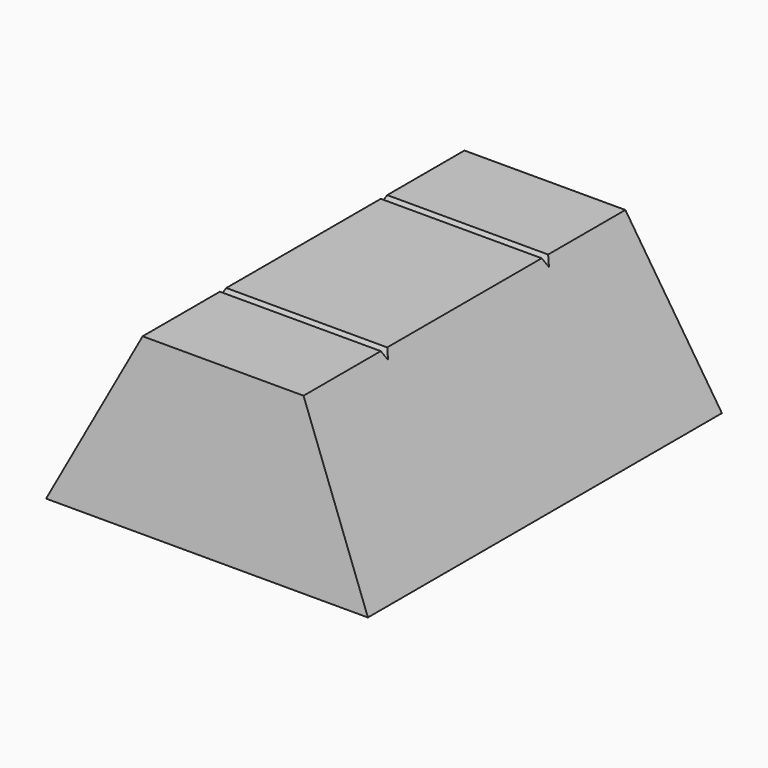
from build123d import *

# Parameters (mm, degrees)
F0_W     = 20
F0_H     = 20
F1_DEPTH = 25
F3_DEPTH = 20
F4_DEPTH = 30
F5_DEPTH = 25


with BuildPart() as f1:
    # F0 (on Front) → F1 (new body, symmetric)
    with BuildSketch(Plane.XZ):
        Rectangle(F0_W, F0_H)
        Polygon((20, -10), (10, 10), (10, -10), align=None)
        Polygon((20, 10), (10, 10), (20, -10), align=None)
        Polygon((-10, -10), (-10, 10), (-20, -10), align=None)
        Polygon((-20, -10), (-10, 10), (-20, 10), align=None)
    extrude(amount=F1_DEPTH, both=True)

    # F2 (on Right) → F3 (join, symmetric)
    with BuildSketch(Plane.YZ):
        Polygon((-25, -10), (-25, 0), (-25, 10), (-27.5, -10), align=None)
        Polygon((25, 10), (25, 0), (25, -10), (27.5, -10), align=None)
    extrude(amount=F3_DEPTH, both=True)

    # F0 (on Front) → F4 (cut, symmetric)
    with BuildSketch(Plane.XZ):
        Polygon((20, 10), (10, 10), (20, -10), align=None)
        Polygon((-20, -10), (-10, 10), (-20, 10), align=None)
    extrude(amount=F4_DEPTH, both=True, mode=Mode.SUBTRACT)

    # F2 (on Right) → F5 (cut, symmetric)
    with BuildSketch(Plane.YZ):
        Polygon((12.5, 9), (12.5, 10), (12, 10), align=None)
        Polygon((12.5, 9), (13, 10), (12.5, 10), align=None)
        Polygon((-12.5, 10), (-13, 10), (-12.5, 9), align=None)
        Polygon((-12, 10), (-12.5, 10), (-12.5, 9), align=None)
    extrude(amount=F5_DEPTH, both=True, mode=Mode.SUBTRACT)


solid = f1.part
